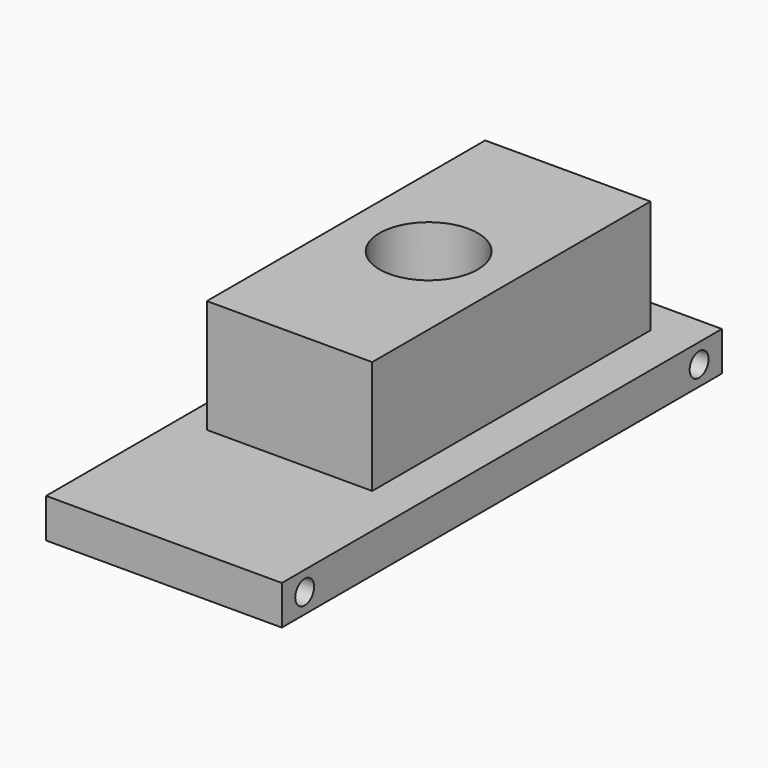
from build123d import *

# Parameters (mm, degrees)
F0_W     = 76.2
F0_H     = 177.8
F1_DEPTH = 12.7
F3_D     = 7.62
F4_D     = 7.62
F6_W     = 53.435474
F6_H     = 112.436191
F6_R     = 15.902152
F7_DEPTH = 36.66461


with BuildPart() as f1:
    # F0 (on Top) → F1 (new body)
    with BuildSketch(Plane.XY):
        with Locations((-11.308188, 0.622381)):
            Rectangle(F0_W, F0_H)
    extrude(amount=F1_DEPTH)

    # F3 (through all)
    with Locations(Plane.YZ.offset(26.791812)):
        with Locations((-79.060733, 6.35)):
            Hole(F3_D / 2)

    # F4 (through all)
    with Locations(Plane.YZ.offset(26.791812)):
        with Locations((80.305494, 6.35)):
            Hole(F4_D / 2)

    # F6 (on face) → F7 (join)
    with BuildSketch(Plane.XY.offset(12.7)):
        with Locations((-13.522789, 21.443374)):
            Rectangle(F6_W, F6_H)
        with Locations((-13.522789, 21.443374)):
            Circle(F6_R, mode=Mode.SUBTRACT)
    extrude(amount=F7_DEPTH)


solid = f1.part
